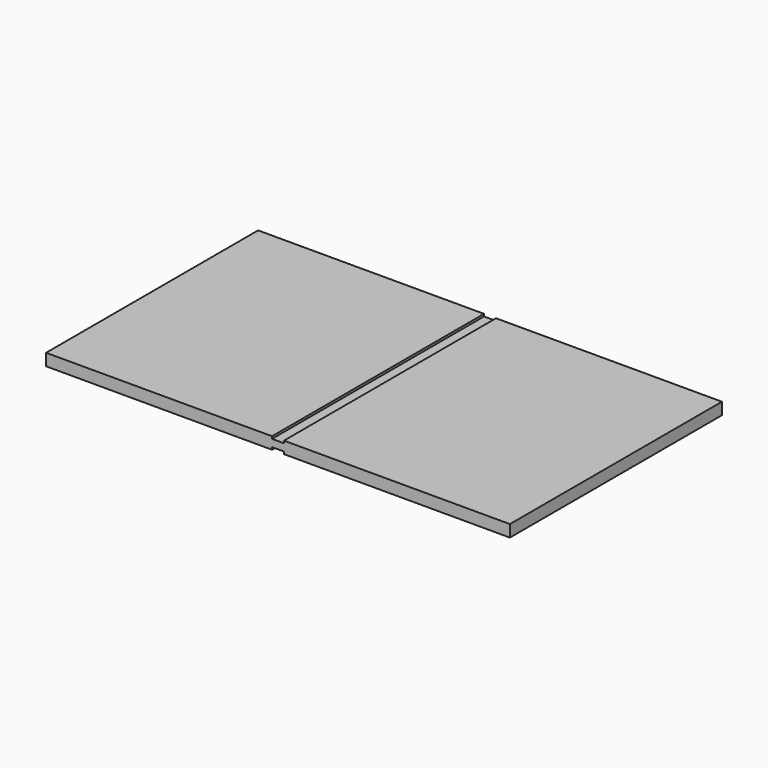
from build123d import *

# Parameters (mm, degrees)
SKETCH_W        = 700
SKETCH_H        = 400
PAD_DEPTH       = 18
PAD001_DEPTH    = 18
SKETCH001_W     = 18
SKETCH001_H     = 400
POCKET_DEPTH    = 3.5
SKETCH002_W     = 18
SKETCH002_H     = 400
POCKET001_DEPTH = 3.5


with BuildPart() as part:
    # Sketch → Pad (new body)
    with BuildSketch(Plane.XY):
        with Locations((-350, 200)):
            Rectangle(SKETCH_W, SKETCH_H)
    extrude(amount=PAD_DEPTH)

    # Sketch → Pad001 (join)
    with BuildSketch(Plane.XY):
        with Locations((-350, 200)):
            Rectangle(SKETCH_W, SKETCH_H)
    extrude(amount=PAD001_DEPTH)

    # Sketch001 (on Face5 of Pad001) → Pocket (cut)
    with BuildSketch(Plane.XY.offset(18)):
        with Locations((-350, 200)):
            Rectangle(SKETCH001_W, SKETCH001_H)
    extrude(amount=-POCKET_DEPTH, mode=Mode.SUBTRACT)

    # Sketch002 (on Face2 of Pocket) → Pocket001 (cut)
    with BuildSketch(Plane(origin=(0, 0, 0), x_dir=(1, 0, 0), z_dir=(0, 0, -1))):
        with Locations((-350, -200)):
            Rectangle(SKETCH002_W, SKETCH002_H)
    extrude(amount=-POCKET001_DEPTH, mode=Mode.SUBTRACT)


solid = part.part
